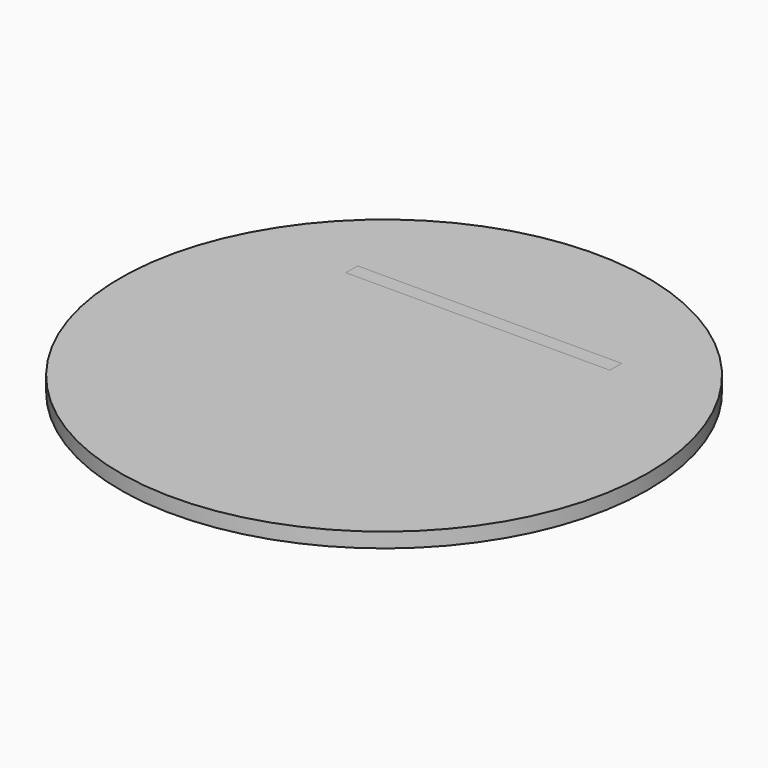
from build123d import *

# Parameters (mm, degrees)
F0_R     = 101.6
F1_DEPTH = 5.6896
F2_W     = 101.6
F2_H     = 5.6896
F3_DEPTH = 44.45


with BuildPart() as f1:
    # F0 (on Top) → F1 (new body)
    with BuildSketch(Plane.XY):
        Circle(F0_R)
    extrude(amount=F1_DEPTH)


with BuildPart() as f3:
    # F2 (on face) → F3 (new body)
    with BuildSketch(Plane.XY.offset(5.6896)):
        with Locations((0, 47.9552)):
            Rectangle(F2_W, F2_H)
    extrude(amount=-F3_DEPTH)


solid = Compound([f1.part, f3.part])
